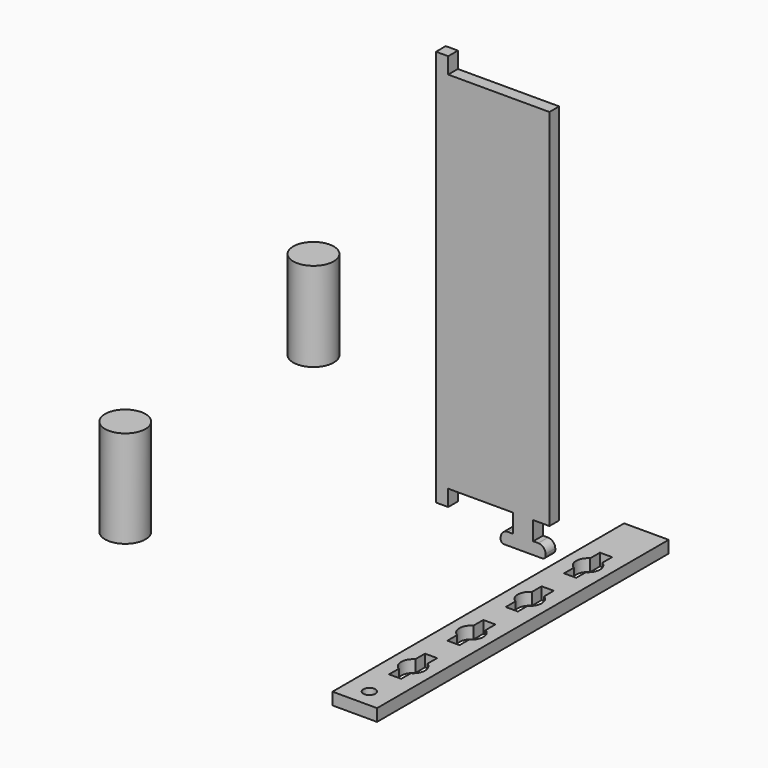
from build123d import *

# Parameters (mm, degrees)
F2_DEPTH = 3
F1_W     = 11
F1_H     = 90
F1_R     = 1.5
F3_DEPTH = 3
F4_R     = 5
F5_DEPTH = 11
F6_R     = 5
F7_DEPTH = 12
F8_W     = 3
F8_H     = 4
F9_DEPTH = 3


with BuildPart() as f2:
    # F0 (on Front) → F2 (new body)
    with BuildSketch(Plane.XZ):
        with BuildLine():
            Line((0, 90), (0, 0))
            Line((0, 0), (0, -4))
            Line((0, -4), (3, -4))
            Line((3, -4), (3, 0))
            Line((3, 0), (19, 0))
            Line((19, 0), (19, -4.6))
            Line((19, -4.6), (17.759825, -4.6))
            ThreePointArc((17.759825, -4.6), (16.4870327939, -5.1272077939), (15.959825, -6.4))
            Line((15.959825, -6.4), (15.959825, -6.8))
            ThreePointArc((15.959825, -6.8), (16.1941395751, -7.3656854249), (16.759825, -7.6))
            Line((16.759825, -7.6), (26.240175, -7.6))
            ThreePointArc((26.240175, -7.6), (26.8058604249, -7.3656854249), (27.040175, -6.8))
            Line((27.040175, -6.8), (27.040175, -6.4))
            ThreePointArc((27.040175, -6.4), (26.5129672061, -5.1272077939), (25.240175, -4.6))
            Line((25.240175, -4.6), (24, -4.6))
            Line((24, -4.6), (24, 0))
            Line((24, 0), (28, 0))
            Line((28, 0), (28, 90))
            Line((28, 90), (7, 90))
            Line((7, 90), (3, 90))
            Line((3, 90), (3, 94))
            Line((3, 94), (0, 94))
            Line((0, 94), (0, 90))
        make_face()
    extrude(amount=F2_DEPTH)

    # F8 (on face) → F9 (join, through all)
    with BuildSketch(Plane(origin=(0, 0, 0), x_dir=(0, -1, 0), z_dir=(-1, 0, 0))):
        with Locations((1.5, -2)):
            Rectangle(F8_W, F8_H)
        with Locations((1.5, 92)):
            Rectangle(F8_W, F8_H)
    extrude(amount=-F9_DEPTH)


with BuildPart() as f3:
    # F1 (on Top) → F3 (new body)
    with BuildSketch(Plane.XY):
        with Locations((44.0314322607, -38.1132309322)):
            Rectangle(F1_W, F1_H)
        with Locations((44.0314322607, -78.6132309322)):
            Circle(F1_R, mode=Mode.SUBTRACT)
        with BuildLine():
            ThreePointArc((45.5314322607, -62.5730537731), (46.5934139156, -63.650784352), (46.9814322607, -65.1132309322))
            ThreePointArc((46.9814322607, -65.1132309322), (46.5934139156, -66.5756775125), (45.5314322607, -67.6534080914))
            Line((45.5314322607, -67.6534080914), (45.5314322607, -70.6534080914))
            Line((45.5314322607, -70.6534080914), (42.5314322607, -70.6534080914))
            Line((42.5314322607, -70.6534080914), (42.5314322607, -67.6534080914))
            ThreePointArc((42.5314322607, -67.6534080914), (41.0814322607, -65.1132309322), (42.5314322607, -62.5730537731))
            Line((42.5314322607, -62.5730537731), (42.5314322607, -59.5730537731))
            Line((42.5314322607, -59.5730537731), (45.5314322607, -59.5730537731))
            Line((45.5314322607, -59.5730537731), (45.5314322607, -62.5730537731))
        make_face(mode=Mode.SUBTRACT)
        with BuildLine():
            ThreePointArc((45.5314322607, -44.5730537731), (46.5934139156, -45.650784352), (46.9814322607, -47.1132309322))
            ThreePointArc((46.9814322607, -47.1132309322), (46.5934139156, -48.5756775125), (45.5314322607, -49.6534080914))
            Line((45.5314322607, -49.6534080914), (45.5314322607, -52.6534080914))
            Line((45.5314322607, -52.6534080914), (42.5314322607, -52.6534080914))
            Line((42.5314322607, -52.6534080914), (42.5314322607, -49.6534080914))
            ThreePointArc((42.5314322607, -49.6534080914), (41.0814322607, -47.1132309322), (42.5314322607, -44.5730537731))
            Line((42.5314322607, -44.5730537731), (42.5314322607, -41.5730537731))
            Line((42.5314322607, -41.5730537731), (45.5314322607, -41.5730537731))
            Line((45.5314322607, -41.5730537731), (45.5314322607, -44.5730537731))
        make_face(mode=Mode.SUBTRACT)
        with BuildLine():
            ThreePointArc((45.5314322607, -26.5730537731), (46.5934139156, -27.650784352), (46.9814322607, -29.1132309322))
            ThreePointArc((46.9814322607, -29.1132309322), (46.5934139156, -30.5756775125), (45.5314322607, -31.6534080914))
            Line((45.5314322607, -31.6534080914), (45.5314322607, -34.6534080914))
            Line((45.5314322607, -34.6534080914), (42.5314322607, -34.6534080914))
            Line((42.5314322607, -34.6534080914), (42.5314322607, -31.6534080914))
            ThreePointArc((42.5314322607, -31.6534080914), (41.0814322607, -29.1132309322), (42.5314322607, -26.5730537731))
            Line((42.5314322607, -26.5730537731), (42.5314322607, -23.5730537731))
            Line((42.5314322607, -23.5730537731), (45.5314322607, -23.5730537731))
            Line((45.5314322607, -23.5730537731), (45.5314322607, -26.5730537731))
        make_face(mode=Mode.SUBTRACT)
        with BuildLine():
            ThreePointArc((45.5314322607, -8.5730537731), (46.5934139156, -9.650784352), (46.9814322607, -11.1132309322))
            ThreePointArc((46.9814322607, -11.1132309322), (46.5934139156, -12.5756775125), (45.5314322607, -13.6534080914))
            Line((45.5314322607, -13.6534080914), (45.5314322607, -16.6534080914))
            Line((45.5314322607, -16.6534080914), (42.5314322607, -16.6534080914))
            Line((42.5314322607, -16.6534080914), (42.5314322607, -13.6534080914))
            ThreePointArc((42.5314322607, -13.6534080914), (41.0814322607, -11.1132309322), (42.5314322607, -8.5730537731))
            Line((42.5314322607, -8.5730537731), (42.5314322607, -5.5730537731))
            Line((42.5314322607, -5.5730537731), (45.5314322607, -5.5730537731))
            Line((45.5314322607, -5.5730537731), (45.5314322607, -8.5730537731))
        make_face(mode=Mode.SUBTRACT)
    extrude(amount=-F3_DEPTH)


with BuildPart() as f5:
    # F4 (on Top) → F5 (new body, symmetric)
    with BuildSketch(Plane.XY):
        with Locations((-65.3124973178, 40.821287781)):
            Circle(F4_R)
    extrude(amount=F5_DEPTH, both=True)


with BuildPart() as f7:
    # F6 (on Top) → F7 (new body, symmetric)
    with BuildSketch(Plane.XY):
        with Locations((-48.7421378493, -37.9825122654)):
            Circle(F6_R)
    extrude(amount=F7_DEPTH, both=True)


solid = Compound([f2.part, f3.part, f5.part, f7.part])
